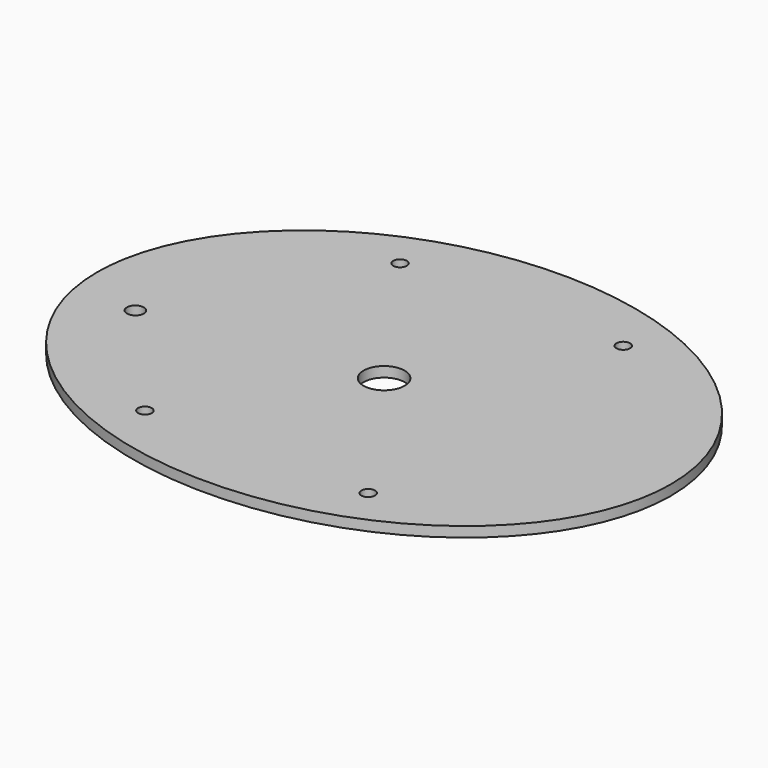
from build123d import *

# Parameters (mm, degrees)
F0_R     = 2.15
F0_R_2   = 2.65
F0_R_3   = 6.45
F1_DEPTH = 3.2


with BuildPart() as f1:
    # F0 (on Top) → F1 (new body)
    with BuildSketch(Plane.XY):
        with BuildLine():
            add(Edge.make_bspline(
                [(-90, 0), (-90, -121.243557), (45, -60.621778), (180, 0), (45, 60.621778), (-90, 121.243557), (-90, 0)],
                knots=[0, 0, 0, 2.094395, 2.094395, 4.18879, 4.18879, 6.283185, 6.283185, 6.283185], degree=2, weights=[1, 0.5, 1, 0.5, 1, 0.5, 1]))
        make_face()
        with Locations((-35, -50)):
            Circle(F0_R, mode=Mode.SUBTRACT)
        with Locations((-70, -10)):
            Circle(F0_R_2, mode=Mode.SUBTRACT)
        with Locations((35, -50)):
            Circle(F0_R, mode=Mode.SUBTRACT)
        with Locations((-35, 50)):
            Circle(F0_R, mode=Mode.SUBTRACT)
        Circle(F0_R_3, mode=Mode.SUBTRACT)
        with Locations((35, 50)):
            Circle(F0_R, mode=Mode.SUBTRACT)
    extrude(amount=F1_DEPTH)


solid = f1.part
